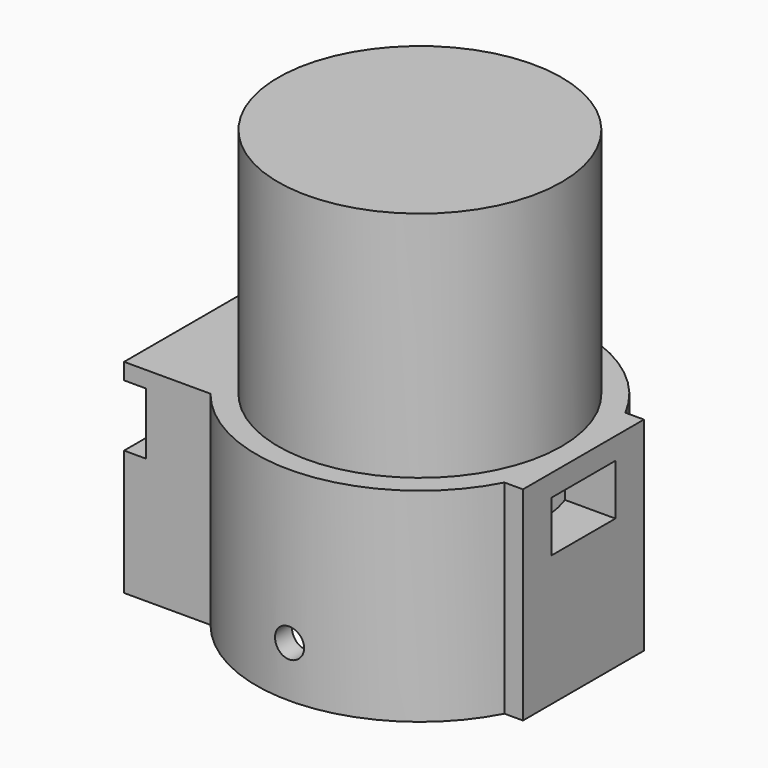
from build123d import *

# Parameters (mm, degrees)
SKETCH_R        = 19.6
PAD_DEPTH       = 15
SKETCH001_R     = 16.5
PAD001_DEPTH    = 13
SKETCH002_W     = 11
SKETCH002_H     = 7
POCKET_DEPTH    = 10
SKETCH003_W     = 28
SKETCH003_H     = 8.5
POCKET001_DEPTH = 3
SKETCH004_R     = 1.75
SKETCH004_W     = 15.8
SKETCH004_H     = 8.5
POCKET002_DEPTH = 12
SKETCH006_R     = 2
HOLE_DEPTH      = 22.501
SKETCH007_R     = 2
HOLE001_DEPTH   = 22.501
SKETCH008_R     = 19.5
SKETCH008_R_2   = 16.5
PAD002_DEPTH    = 29
SKETCH009_R     = 19.5
PAD003_DEPTH    = 3


with BuildPart() as part:
    # Sketch → Pad (new body)
    with BuildSketch(Plane.XY):
        with BuildLine():
            Line((-29.5, 14), (-29.5, -14))
            Line((-29.5, -14), (-17.613915, -14))
            ThreePointArc((-17.613915, -14), (2.146366, -22.397391), (19.952193, -10.4))
            Line((19.952193, -10.4), (22.5, -10.4))
            Line((22.5, -10.4), (22.5, 10.4))
            Line((22.5, 10.4), (19.952193, 10.4))
            ThreePointArc((19.952193, 10.4), (2.146366, 22.397391), (-17.613915, 14))
            Line((-17.613915, 14), (-29.5, 14))
        make_face()
        Circle(SKETCH_R, mode=Mode.SUBTRACT)
    extrude(amount=PAD_DEPTH)

    # Sketch001 (on Face11 of Pad) → Pad001 (join)
    with BuildSketch(Plane.XY.offset(15)):
        with BuildLine():
            ThreePointArc((19.952193, 10.4), (2.146366, 22.397391), (-17.613915, 14))
            Line((-17.613915, 14), (-29.5, 14))
            Line((-29.5, 14), (-29.5, -14))
            Line((-29.5, -14), (-17.613915, -14))
            ThreePointArc((-17.613915, -14), (2.146366, -22.397391), (19.952193, -10.4))
            Line((22.5, -10.4), (19.952193, -10.4))
            Line((22.5, 10.4), (22.5, -10.4))
            Line((19.952193, 10.4), (22.5, 10.4))
        make_face()
        Circle(SKETCH001_R, mode=Mode.SUBTRACT)
    extrude(amount=PAD001_DEPTH)

    # Sketch002 (on Face10 of Pad001) → Pocket (cut)
    with BuildSketch(Plane.YZ.offset(22.5)):
        with Locations((0, 21.5)):
            Rectangle(SKETCH002_W, SKETCH002_H)
    extrude(amount=-POCKET_DEPTH, mode=Mode.SUBTRACT)

    # Sketch003 (on Face2 of Pocket) → Pocket001 (cut)
    with BuildSketch(Plane(origin=(-29.5, 0, 0), x_dir=(0, -1, 0), z_dir=(-1, 0, 0))):
        with Locations((0, 21.5)):
            Rectangle(SKETCH003_W, SKETCH003_H)
    extrude(amount=-POCKET001_DEPTH, mode=Mode.SUBTRACT)

    # Sketch004 (on Face12 of Pocket001) → Pocket002 (cut)
    with BuildSketch(Plane(origin=(-26.5, 0, 0), x_dir=(0, -1, 0), z_dir=(-1, 0, 0))):
        with Locations((10.35, 21.5)):
            Circle(SKETCH004_R)
        with Locations((-10.35, 21.5)):
            Circle(SKETCH004_R)
        with Locations((0, 21.5)):
            Rectangle(SKETCH004_W, SKETCH004_H)
    extrude(amount=-POCKET002_DEPTH, mode=Mode.SUBTRACT)

    # Sketch006 → Hole (cut, through all)
    with BuildSketch(Plane.XZ):
        with Locations((0, 7)):
            Circle(SKETCH006_R)
    extrude(amount=-HOLE_DEPTH, mode=Mode.SUBTRACT)

    # Sketch007 → Hole001 (cut, through all)
    with BuildSketch(Plane.XZ):
        with Locations((0, 7)):
            Circle(SKETCH007_R)
    extrude(amount=HOLE001_DEPTH, mode=Mode.SUBTRACT)

    # Sketch008 (on Face15 of Hole001) → Pad002 (join)
    with BuildSketch(Plane.XY.offset(28)):
        Circle(SKETCH008_R)
        Circle(SKETCH008_R_2, mode=Mode.SUBTRACT)
    extrude(amount=PAD002_DEPTH)

    # Sketch009 (on Face32 of Pad002) → Pad003 (join)
    with BuildSketch(Plane.XY.offset(57)):
        Circle(SKETCH009_R)
    extrude(amount=PAD003_DEPTH)


solid = part.part
